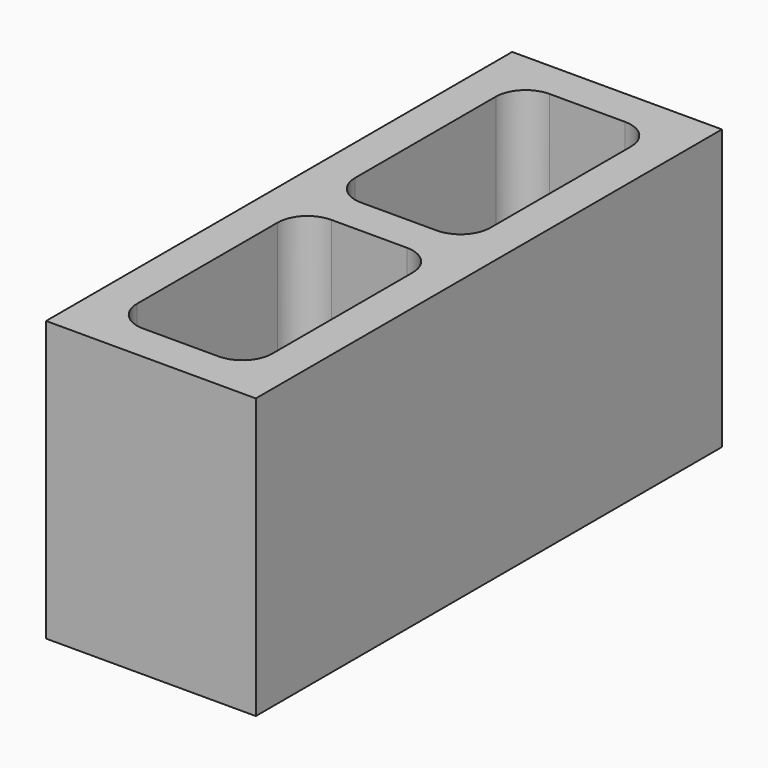
from build123d import *

# Parameters (mm, degrees)
F0_W     = 142.875
F0_H     = 396.875
F1_DEPTH = 95.25


with BuildPart() as f1:
    # F0 (on Top) → F1 (new body, symmetric)
    with BuildSketch(Plane.XY):
        Rectangle(F0_W, F0_H)
        with BuildLine():
            Line((-46.0375, -152.7175), (-46.0375, -33.02))
            ThreePointArc((-46.0375, -33.02), (-40.08591, -18.65159), (-25.7175, -12.7))
            Line((-25.7175, -12.7), (25.7175, -12.7))
            ThreePointArc((25.7175, -12.7), (40.08591, -18.65159), (46.0375, -33.02))
            Line((46.0375, -33.02), (46.0375, -152.7175))
            ThreePointArc((46.0375, -152.7175), (40.08591, -167.08591), (25.7175, -173.0375))
            Line((25.7175, -173.0375), (-25.7175, -173.0375))
            ThreePointArc((-25.7175, -173.0375), (-40.08591, -167.08591), (-46.0375, -152.7175))
        make_face(mode=Mode.SUBTRACT)
        with BuildLine():
            ThreePointArc((46.0375, 33.02), (40.08591, 18.65159), (25.7175, 12.7))
            Line((25.7175, 12.7), (-25.7175, 12.7))
            ThreePointArc((-25.7175, 12.7), (-40.08591, 18.65159), (-46.0375, 33.02))
            Line((-46.0375, 33.02), (-46.0375, 152.7175))
            ThreePointArc((-46.0375, 152.7175), (-40.08591, 167.08591), (-25.7175, 173.0375))
            Line((-25.7175, 173.0375), (25.7175, 173.0375))
            ThreePointArc((25.7175, 173.0375), (40.08591, 167.08591), (46.0375, 152.7175))
            Line((46.0375, 152.7175), (46.0375, 33.02))
        make_face(mode=Mode.SUBTRACT)
    extrude(amount=F1_DEPTH, both=True)


solid = f1.part
